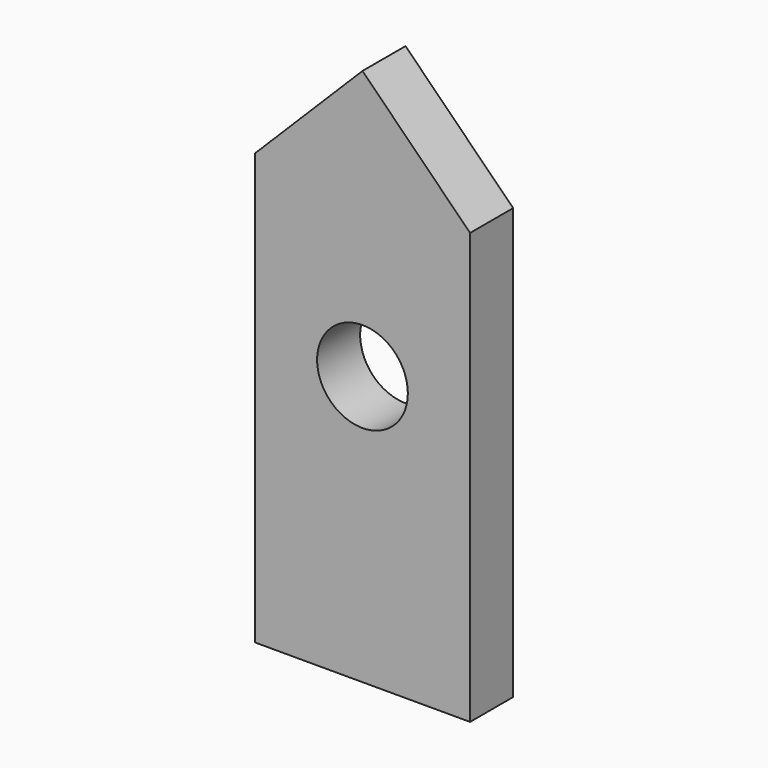
from build123d import *

# Parameters (mm, degrees)
F0_W     = 101.6
F0_H     = 203.2
F0_R     = 21.411557
F1_DEPTH = 25.4


with BuildPart() as f1:
    # F0 (on Front) → F1 (new body)
    with BuildSketch(Plane.XZ):
        with Locations((-45.625693, 4.884522)):
            Rectangle(F0_W, F0_H)
        with Locations((-45.625693, 30.284522)):
            Circle(F0_R, mode=Mode.SUBTRACT)
        Polygon((-45.625693, 157.284522), (-96.425693, 106.484522), (5.174307, 106.484522), align=None)
    extrude(amount=F1_DEPTH)


solid = f1.part
